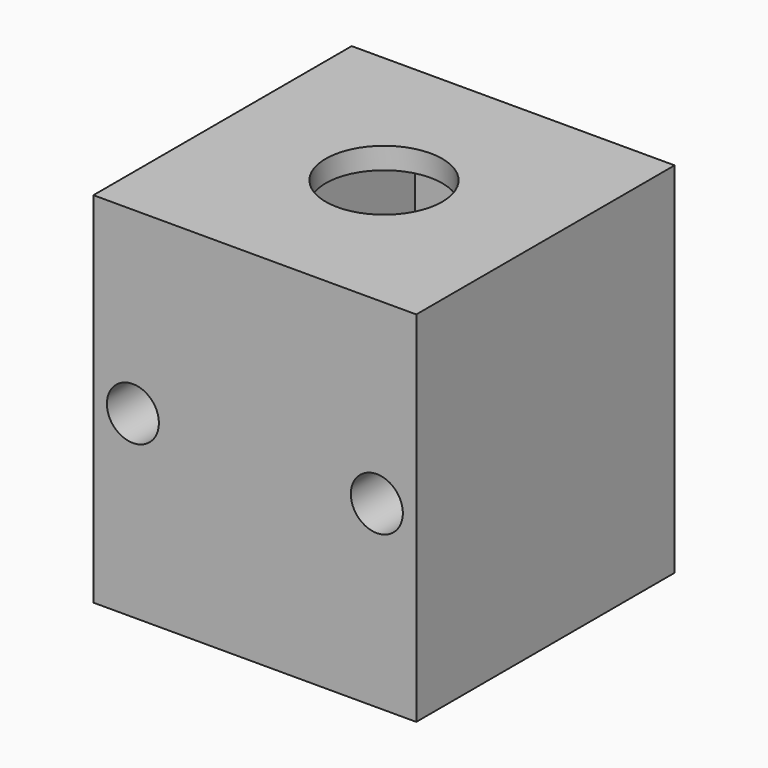
from build123d import *

# Parameters (mm, degrees)
SKETCH007_W     = 18
SKETCH007_H     = 18
PAD007_DEPTH    = 20
THICKNESS002_T  = -1.2
SKETCH008_R     = 3.25
POCKET002_DEPTH = 5
SKETCH009_W     = 3.3
SKETCH009_H     = 15.6
PAD008_DEPTH    = 18.8
SKETCH010_R     = 1.45
POCKET003_DEPTH = 18.001


with BuildPart() as part:
    # Sketch007 → Pad007 (new body)
    with BuildSketch(Plane.XY):
        with Locations((9, 9)):
            Rectangle(SKETCH007_W, SKETCH007_H)
    extrude(amount=PAD007_DEPTH)

    # Thickness002
    thickness002_openings = [part.faces().sort_by_distance(p)[0] for p in [
        (9, 9, 0),
    ]]
    offset(amount=THICKNESS002_T, openings=thickness002_openings, kind=Kind.INTERSECTION)

    # Sketch008 (on Face5 of Thickness002) → Pocket002 (cut)
    with BuildSketch(Plane.XY.offset(20)):
        with Locations((9, 9)):
            Circle(SKETCH008_R)
    extrude(amount=-POCKET002_DEPTH, mode=Mode.SUBTRACT)

    # Sketch009 (on Face4 of Pocket002) → Pad008 (join)
    with BuildSketch(Plane(origin=(0, 0, 0), x_dir=(1, 0, 0), z_dir=(0, 0, -1))):
        with Locations((2.85, -9)):
            Rectangle(SKETCH009_W, SKETCH009_H)
        with Locations((15.15, -9)):
            Rectangle(SKETCH009_W, SKETCH009_H)
    extrude(amount=-PAD008_DEPTH)

    # Sketch010 (on Face6 of Pad008) → Pocket003 (cut, through all)
    with BuildSketch(Plane(origin=(0, 18, 0), x_dir=(-1, 0, 0), z_dir=(0, 1, 0))):
        with Locations((-15.8, 10)):
            Circle(SKETCH010_R)
        with Locations((-2.2, 10)):
            Circle(SKETCH010_R)
    extrude(amount=-POCKET003_DEPTH, mode=Mode.SUBTRACT)


with BuildPart() as part_1:
    # Body003 placement: moved
    add(part.part.moved(Location((-75, 0, 0))))


solid = part_1.part
